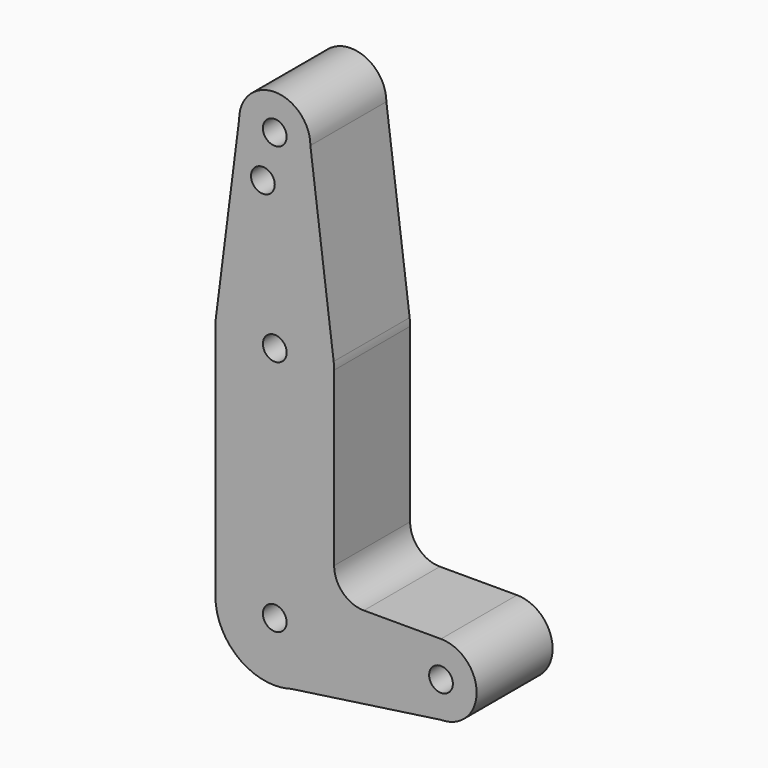
from build123d import *

# Parameters (mm, degrees)
F0_R     = 3.175
F1_DEPTH = 25.4


with BuildPart() as f1:
    # F0 (on Front) → F1 (new body)
    with BuildSketch(Plane.XZ):
        with BuildLine():
            ThreePointArc((-2.3812504012, 105.0774585104), (5.8328472862, 106.7698261948), (9.525, 114.3))
            ThreePointArc((9.525, 114.3), (0, 123.825), (-9.525, 114.3))
            ThreePointArc((-9.525, 114.3), (-7.5301738052, 108.4671527138), (-2.3812504012, 105.0774585104))
        make_face()
        with Locations((0, 114.3)):
            Circle(F0_R, mode=Mode.SUBTRACT)
        with BuildLine():
            Line((15.7474569047, 65.5082893304), (9.525, 114.3))
            ThreePointArc((9.525, 114.3), (5.8328472862, 106.7698261948), (-2.3812504012, 105.0774585104))
            ThreePointArc((-2.3812504012, 105.0774585104), (-7.5301738052, 108.4671527138), (-9.525, 114.3))
            Line((-9.525, 114.3), (-15.7474569047, 65.5082893304))
            ThreePointArc((-15.7474569047, 65.5082893304), (0, 79.375), (15.7474569047, 65.5082893304))
        make_face()
        with BuildLine():
            ThreePointArc((0, 102.0032778758), (-5.6850577659, 100.0589952287), (-2.3812504012, 105.0774585104))
            ThreePointArc((-2.3812504012, 105.0774585104), (-0.6649422341, 103.9475605229), (0, 102.0032778758))
        make_face(mode=Mode.SUBTRACT)
        with BuildLine():
            ThreePointArc((15.875, 63.5), (15.8430821396, 64.5061676396), (15.7474569047, 65.5082893304))
            ThreePointArc((15.7474569047, 65.5082893304), (0, 79.375), (-15.7474569047, 65.5082893304))
            ThreePointArc((-15.7474569047, 65.5082893304), (-15.8430821396, 64.5061676396), (-15.875, 63.5))
            ThreePointArc((-15.875, 63.5), (0, 47.625), (15.875, 63.5))
        make_face()
        with Locations((0, 63.5)):
            Circle(F0_R, mode=Mode.SUBTRACT)
        with BuildLine():
            Line((15.875, 17.4752), (15.875, 63.5))
            ThreePointArc((15.875, 63.5), (0, 47.625), (-15.875, 63.5))
            Line((-15.875, 63.5), (-15.875, 0))
            ThreePointArc((-15.875, 0), (0, 15.875), (15.875, 0))
            ThreePointArc((15.875, 0), (12.7, -9.525), (4.445, -15.24))
            Line((4.445, -15.24), (44.45, -9.525))
            ThreePointArc((44.45, -9.525), (34.925, 0), (44.45, 9.525))
            Line((44.45, 9.525), (23.8252, 9.525))
            ThreePointArc((23.8252, 9.525), (18.2035596682, 11.8535596682), (15.875, 17.4752))
        make_face()
        with BuildLine():
            ThreePointArc((15.875, 0), (0, 15.875), (-15.875, 0))
            ThreePointArc((-15.875, 0), (-11.2253201513, -11.2253201513), (0, -15.875))
            Line((0, -15.875), (4.445, -15.24))
            ThreePointArc((4.445, -15.24), (12.7, -9.525), (15.875, 0))
        make_face()
        Circle(F0_R, mode=Mode.SUBTRACT)
        with BuildLine():
            Line((4.445, -15.24), (0, -15.875))
            ThreePointArc((0, -15.875), (2.2450640303, -15.7154482119), (4.445, -15.24))
        make_face()
        with BuildLine():
            ThreePointArc((53.975, 0), (51.1851920908, 6.7351920908), (44.45, 9.525))
            ThreePointArc((44.45, 9.525), (34.925, 0), (44.45, -9.525))
            ThreePointArc((44.45, -9.525), (51.1851920908, -6.7351920908), (53.975, 0))
        make_face()
        with Locations((44.45, 0)):
            Circle(F0_R, mode=Mode.SUBTRACT)
    extrude(amount=F1_DEPTH)


solid = f1.part
